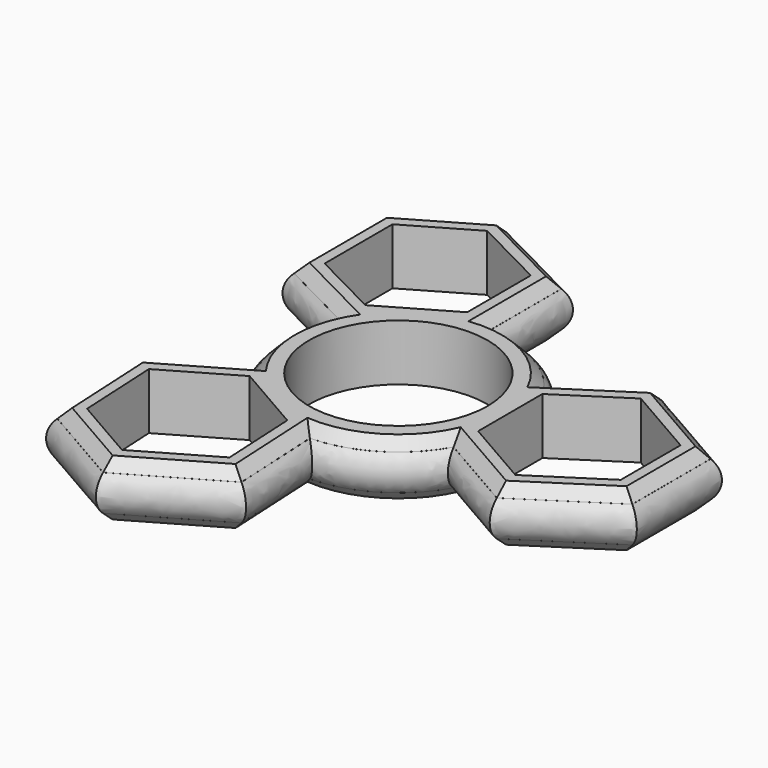
from build123d import *

# Parameters (mm, degrees)
F0_R     = 11.049
F1_DEPTH = 6.985
F2_SIZE  = 1.27
F3_SIZE  = 1.27


with BuildPart() as f1:
    # F0 (on Top) → F1 (new body)
    with BuildSketch(Plane.XY):
        with BuildLine():
            Line((33.2901752876, 6.7276503656), (21.5595975376, 13.4792014425))
            Line((21.5595975376, 13.4792014425), (12.0501109502, 7.3157516459))
            ThreePointArc((12.0501109502, 7.3157516459), (6.8126779283, 12.3415078293), (-0.2310300677, 14.0951062843))
            Line((-0.2310300677, 14.0951062843), (-0.2464916806, 25.5467679607))
            Line((-0.2464916806, 25.5467679607), (-11.9835937361, 31.5403468065))
            Line((-11.9835937361, 31.5403468065), (-22.471403317, 25.466312053))
            Line((-22.471403317, 25.466312053), (-22.4531291902, 11.9315587179))
            Line((-22.4531291902, 11.9315587179), (-12.3606820314, 6.7778267739))
            ThreePointArc((-12.3606820314, 6.7778267739), (-14.0943982683, -0.2708016102), (-12.0912050005, -7.2476311781))
            Line((-12.0912050005, -7.2476311781), (-22.0009040442, -12.9868521212))
            Line((-22.0009040442, -12.9868521212), (-21.3229445654, -26.1482699183))
            Line((-21.3229445654, -26.1482699183), (-10.8187715204, -32.193961985))
            Line((-10.8187715204, -32.193961985), (0.8935314847, -25.4107595485))
            Line((0.8935314847, -25.4107595485), (0.3105706975, -14.0935780375))
            ThreePointArc((0.3105706975, -14.0935780375), (7.2817198869, -12.07070634), (12.322234926, -6.8474756286))
            Line((12.322234926, -6.8474756286), (22.2473958928, -12.5599164513))
            Line((22.2473958928, -12.5599164513), (33.3065388978, -5.392077044))
            Line((33.3065388978, -5.392077044), (33.2901752876, 6.7276503656))
        make_face()
        Polygon((-10.8494610808, -9.463702773), (-2.2153074521, -14.4331024461), (-1.7229753171, -23.9908844768), (-10.8227314635, -29.2610254591), (-18.8574431256, -24.6366354813), (-19.3843972425, -14.4067271929), align=None, mode=Mode.SUBTRACT)
        Circle(F0_R, mode=Mode.SUBTRACT)
        Polygon((-2.7710764749, 14.1277602999), (-11.3917796477, 9.1350637538), (-19.9152277576, 13.4875826331), (-19.9294256566, 24.0032731152), (-11.9072306278, 28.6493425379), (-2.7843931132, 23.9907440455), align=None, mode=Mode.SUBTRACT)
        Polygon((13.6070870998, 5.2980386923), (21.6382030747, 10.5033018437), (30.7521571201, 5.2577523439), (30.7646737534, -4.0127070565), (22.1687903557, -9.5840168526), (13.6205375557, -4.6640575269), align=None, mode=Mode.SUBTRACT)
    extrude(amount=F1_DEPTH)

    # F2
    f2_edges = [f1.edges().sort_by_distance(p)[0] for p in [
        (-16.070858, -29.171116, 6.985),
        (-4.96262, -28.802361, 6.985),
        (0.602051, -19.752169, 6.985),
        (7.28172, -12.070706, 6.985),
        (17.284815, -9.703696, 6.985),
        (27.776967, -8.975997, 6.985),
        (33.298357, 0.667787, 6.985),
        (27.424886, 10.103426, 6.985),
        (16.804854, 10.397477, 6.985),
        (6.812678, 12.341508, 6.985),
        (-0.238761, 19.820937, 6.985),
        (-6.115043, 28.543557, 6.985),
        (-17.227499, 28.503329, 6.985),
        (-22.462266, 18.698935, 6.985),
        (-17.406906, 9.354693, 6.985),
        (-14.094398, -0.270802, 6.985),
        (-17.046055, -10.117242, 6.985),
        (-21.661924, -19.567561, 6.985),
    ]]
    chamfer(f2_edges, length=F2_SIZE)

    # F3
    f3_edges = [f1.edges().sort_by_distance(p)[0] for p in [
        (-22.462266, 18.698935, 0),
        (-17.227499, 28.503329, 0),
        (-17.406906, 9.354693, 0),
        (-14.094398, -0.270802, 0),
        (-17.046055, -10.117242, 0),
        (-21.661924, -19.567561, 0),
        (-6.115043, 28.543557, 0),
        (-0.238761, 19.820937, 0),
        (6.812678, 12.341508, 0),
        (16.804854, 10.397477, 0),
        (27.424886, 10.103426, 0),
        (33.298357, 0.667787, 0),
        (27.776967, -8.975997, 0),
        (17.284815, -9.703696, 0),
        (7.28172, -12.070706, 0),
        (0.602051, -19.752169, 0),
        (-4.96262, -28.802361, 0),
        (-16.070858, -29.171116, 0),
    ]]
    chamfer(f3_edges, length=F3_SIZE)


with BuildPart() as f5:
    # F5: sweep along a path in F5_path
    with BuildLine(Plane(origin=(33.3065388978, -5.392077044, 5.715), x_dir=(0, 1, 0), z_dir=(0, 0, 1))) as f5_path:
        Line((0, 0), (12.1197274096, 0.0163636102))
        Line((12.1197274096, 0.0163636102), (18.8712784865, 11.7469413602))
        Line((18.8712784865, 11.7469413602), (12.7078286899, 21.2564279476))
        ThreePointArc((12.7078286899, 21.2564279476), (17.7335848733, 26.4938609694), (19.4871833283, 33.5375689655))
        Line((19.4871833283, 33.5375689655), (30.9388450047, 33.5530305784))
        Line((30.9388450047, 33.5530305784), (36.9324238505, 45.2901326338))
        Line((36.9324238505, 45.2901326338), (30.858389097, 55.7779422147))
        Line((30.858389097, 55.7779422147), (17.3236357619, 55.759668088))
        Line((17.3236357619, 55.759668088), (12.1699038179, 45.6672209291))
        ThreePointArc((12.1699038179, 45.6672209291), (5.1212754338, 47.400937166), (-1.8555541341, 45.3977438982))
        Line((-1.8555541341, 45.3977438982), (-7.5947750772, 55.307442942))
        Line((-7.5947750772, 55.307442942), (-20.7561928743, 54.6294834631))
        Line((-20.7561928743, 54.6294834631), (-26.801884941, 44.1253104181))
        Line((-26.801884941, 44.1253104181), (-20.0186825045, 32.4130074131))
        Line((-20.0186825045, 32.4130074131), (-8.7015009935, 32.9959682003))
        ThreePointArc((-8.7015009935, 32.9959682003), (-6.678629296, 26.0248190109), (-1.4553985846, 20.9843039717))
        Line((-1.4553985846, 20.9843039717), (-7.1678394073, 11.059143005))
        Line((-7.1678394073, 11.059143005), (0, 0))
    # F4 (on Front) → F5 (sweep)
    with BuildSketch(Plane.XZ):
        with BuildLine():
            Line((33.3030186594, 5.7120290585), (33.3017520607, 1.273143338))
            ThreePointArc((33.3017520607, 1.273143338), (34.2680918909, 3.492310642), (33.3030186594, 5.7120290585))
        make_face()
    sweep(path=f5_path.line, transition=Transition.RIGHT)


solid = Compound([f1.part, f5.part])
